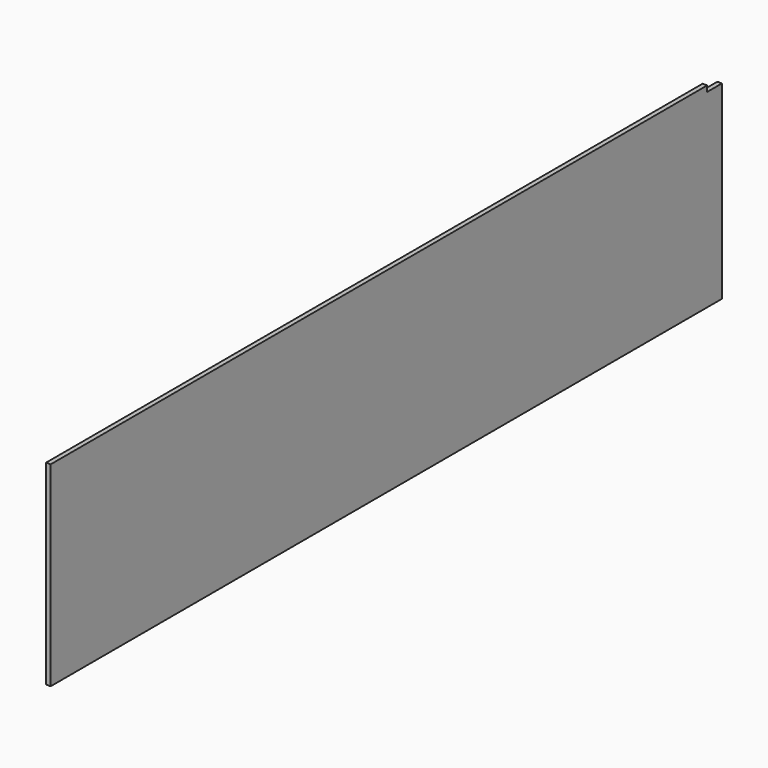
from build123d import *

# Parameters (mm, degrees)
F0_W     = 4
F0_H     = 170
F1_DEPTH = 730
F2_W     = 16
F2_H     = 5
F3_DEPTH = 25


with BuildPart() as f1:
    # F0 (on Front) → F1 (new body)
    with BuildSketch(Plane.XZ):
        Rectangle(F0_W, F0_H)
    extrude(amount=F1_DEPTH)

    # F2 (on face) → F3 (cut)
    with BuildSketch(Plane.YZ.offset(2)):
        with Locations((-8, 82.5)):
            Rectangle(F2_W, F2_H)
    extrude(amount=-F3_DEPTH, mode=Mode.SUBTRACT)


solid = f1.part
